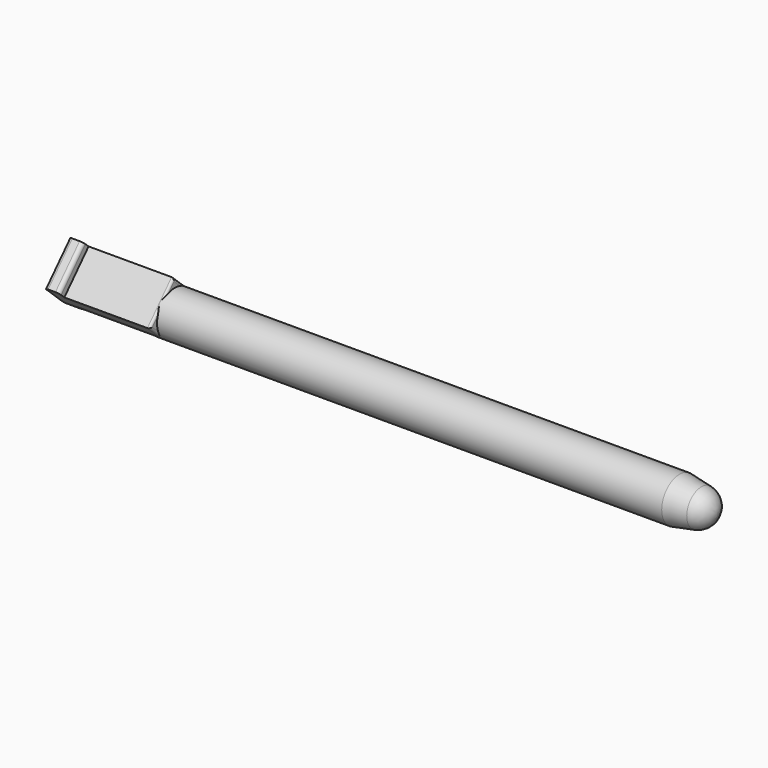
from build123d import *

# Parameters (mm, degrees)
SKETCH009_R             = 2.45
PAD005_DEPTH            = 70.7
SKETCH010_W             = 11
SKETCH010_H             = 4.9
PAD006_DEPTH            = 2.45
POCKET003_DEPTH         = 5
POCKET_DEPTH            = 2.45
POCKET004_DEPTH         = 4.901
SKETCH_R                = 2.45
PAD_DEPTH               = 5.25
PAD007_DEPTH            = 4.9
PAD008_DEPTH            = 0.75
PAD008_DEPTH_BACK       = 0.75
POCKET005_DEPTH         = 4.901
POCKET006_DEPTH         = 70.701
BODY001_PLACEMENT_ANGLE = 47.14


with BuildPart() as part:
    # Sketch009 → Pad005 (new body)
    with BuildSketch(Plane.YZ):
        Circle(SKETCH009_R)
    extrude(amount=PAD005_DEPTH)

    # Sketch010 → Pad006 (join)
    with BuildSketch(Plane.XY):
        with Locations((5.5, 0)):
            Rectangle(SKETCH010_W, SKETCH010_H)
    extrude(amount=PAD006_DEPTH)

    # Sketch013 (on Face4 of Pad006) → Pocket003 (cut)
    with BuildSketch(Plane.YZ.offset(11)):
        with BuildLine():
            ThreePointArc((2.45, 0), (0, 2.45), (-2.45, 0))
            Line((-2.45, 0), (2.45, 0))
        make_face()
    extrude(amount=POCKET003_DEPTH, mode=Mode.SUBTRACT)

    # Sketch012 (on Face8 of Pad006) → Pocket (cut)
    with BuildSketch(Plane(origin=(0, 0, 2.45), x_dir=(0, -1, 0), z_dir=(0, 0, 1))):
        with BuildLine():
            ThreePointArc((-2.2, 11), (-2.376777, 10.926777), (-2.45, 10.75))
            Line((-3.45, 10.75), (-2.45, 10.75))
            Line((-3.45, 11), (-3.45, 10.75))
            Line((-2.2, 11), (-3.45, 11))
        make_face()
        with BuildLine():
            Line((2.2, 11), (3.45, 11))
            Line((3.45, 11), (3.45, 10.75))
            Line((3.45, 10.75), (2.45, 10.75))
            ThreePointArc((2.45, 10.75), (2.376776, 10.926777), (2.2, 11))
        make_face()
    extrude(amount=-POCKET_DEPTH, mode=Mode.SUBTRACT)

    # Sketch011 (on Face3 of Pad006) → Pocket004 (cut, through all)
    with BuildSketch(Plane(origin=(0, -2.45, 0), x_dir=(0, 0, -1), z_dir=(0, -1, 0))):
        with BuildLine():
            Line((-2.45, 11), (-2.2, 11))
            ThreePointArc((-2.2, 11), (-2.376777, 10.926777), (-2.45, 10.75))
            Line((-2.45, 11), (-2.45, 10.75))
        make_face()
    extrude(amount=-POCKET004_DEPTH, mode=Mode.SUBTRACT)

    # Sketch (on Face6 of Pocket004) → Pad (join)
    with BuildSketch(Plane(origin=(16, 0, 0), x_dir=(0, 1, 0), z_dir=(-1, 0, 0))):
        Circle(SKETCH_R)
    extrude(amount=PAD_DEPTH)

    # Sketch014 (on Face5 of Pad) → Pad007 (join)
    with BuildSketch(Plane(origin=(0, -2.45, 0), x_dir=(0, 0, -1), z_dir=(0, -1, 0))):
        with BuildLine():
            Line((-2.45, 0), (-2.45, 1.6))
            Line((-2.45, 1.6), (-3.05, 1.6))
            ThreePointArc((-3.05, 1.6), (-3.332843, 1.482843), (-3.45, 1.2))
            Line((-3.45, 1.2), (-3.45, 0.4))
            ThreePointArc((-3.45, 0.4), (-3.332843, 0.117157), (-3.05, 0))
            Line((-3.05, 0), (-2.45, 0))
        make_face()
    extrude(amount=-PAD007_DEPTH)

    # Sketch015 → Pad008 (join, two sides)
    with BuildSketch(Plane.XZ) as pad008_sk:
        with BuildLine():
            add(Edge.make_bspline(
                [(4.9, -2.45), (4.9, -3.532532), (6.4, -2.991266), (7.9, -2.45), (6.4, -1.908734), (4.9, -1.367468), (4.9, -2.45)],
                knots=[0, 0, 0, 2.094395, 2.094395, 4.18879, 4.18879, 6.283185, 6.283185, 6.283185], degree=2, weights=[1, 0.5, 1, 0.5, 1, 0.5, 1]))
        make_face()
    extrude(amount=PAD008_DEPTH)
    extrude(pad008_sk.sketch, amount=-PAD008_DEPTH_BACK)

    # Sketch016 (on Face2 of Pad008) → Pocket005 (cut, through all)
    with BuildSketch(Plane(origin=(0, -2.45, 0), x_dir=(0, 0, -1), z_dir=(0, -1, 0))):
        with BuildLine():
            Line((1.332381, 2.9), (1.332381, 8.9))
            ThreePointArc((1.332381, 8.9), (0.942135, 9.842135), (0, 10.232381))
            Line((0, 10.232381), (0, 1.567619))
            ThreePointArc((0, 1.567619), (0.942135, 1.957865), (1.332381, 2.9))
        make_face()
    extrude(amount=-POCKET005_DEPTH, mode=Mode.SUBTRACT)

    # Sketch017 → Groove (revolve, cut)
    with BuildSketch(Plane.XZ):
        with BuildLine():
            ThreePointArc((70.7, 0), (70.22222, 1.315531), (69.011588, 2.017859))
            Line((66.6, 2.45), (69.011588, 2.017859))
            Line((66.6, 2.45), (70.7, 2.45))
            Line((70.7, 2.45), (72.7, 2.45))
            Line((72.7, 0), (72.7, 2.45))
            Line((70.7, 0), (72.7, 0))
        make_face()
    revolve(axis=Axis((0, 0, 0), (1, 0, 0)), mode=Mode.SUBTRACT)

    # Sketch018 → Pocket006 (cut, through all)
    with BuildSketch(Plane.YZ):
        Polygon((-0.477941, -3.075), (-0.75, -2.78177), (-1.654008, -1.807418), (-1.926067, -1.514188), (-1.926067, -3.075), align=None)
    extrude(amount=POCKET006_DEPTH, mode=Mode.SUBTRACT)


with BuildPart() as part_1:
    # Body001 placement: moved
    add(part.part.rotate(Axis((0, 0, 0), (1, 0, 0)), BODY001_PLACEMENT_ANGLE))


solid = part_1.part
